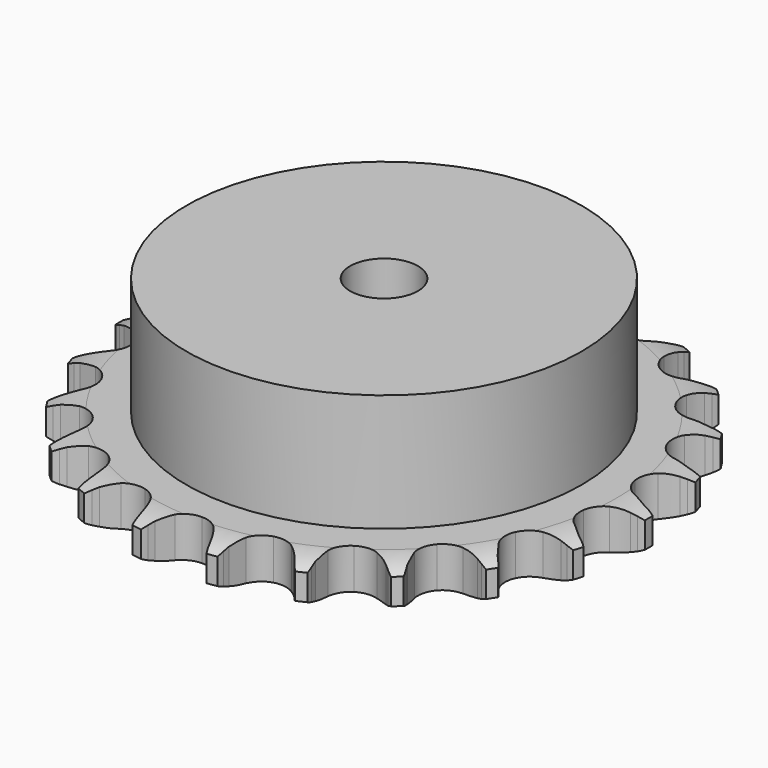
from build123d import *

# Parameters (mm, degrees)
PAD_DEPTH         = 7.2
SKETCH001_R       = 35
PAD001_DEPTH      = 28
SKETCH002_R       = 6
POCKET_DEPTH      = 0.001
POCKET_DEPTH_BACK = -28.001


with BuildPart() as part:
    # Sprocket → Pad (new body)
    with BuildSketch(Plane.XY):
        with BuildLine():
            ThreePointArc((-6.888681, 47.911827), (-5.985415, 46.823172), (-5.319648, 45.575049))
            Line((-5.319648, 45.575049), (-4.90787, 44.569666))
            ThreePointArc((-4.90787, 44.569666), (-4.247592, 43.224033), (-3.412379, 41.9794))
            ThreePointArc((-3.412379, 41.9794), (-1.900521, 40.746159), (0, 40.305006))
            ThreePointArc((0, 40.305006), (1.900521, 40.746159), (3.412379, 41.9794))
            ThreePointArc((3.412379, 41.9794), (4.247592, 43.224033), (4.90787, 44.569666))
            Line((4.90787, 44.569666), (5.319648, 45.575049))
            ThreePointArc((5.319648, 45.575049), (5.985415, 46.823172), (6.888681, 47.911827))
            ThreePointArc((6.888681, 47.911827), (7.448649, 46.612791), (7.73581, 45.227657))
            Line((7.73581, 45.227657), (7.847659, 44.146988))
            ThreePointArc((7.847659, 44.146988), (8.102083, 42.669841), (8.55281, 41.240317))
            ThreePointArc((8.55281, 41.240317), (9.655983, 39.631092), (11.355232, 38.67237))
            ThreePointArc((11.355232, 38.67237), (13.303056, 38.560214), (15.101117, 39.317561))
            Line((15.101117, 39.317561), (17.265792, 41.381574))
            ThreePointArc((17.265792, 41.381574), (17.594598, 41.814185), (17.94414, 42.230221))
            ThreePointArc((17.94414, 42.230221), (18.934576, 43.240219), (20.107962, 44.030296))
            ThreePointArc((20.107962, 44.030296), (20.279267, 42.626119), (20.164559, 41.21619))
            Line((20.164559, 41.21619), (19.967418, 40.147783))
            ThreePointArc((19.967418, 40.147783), (19.795375, 38.658792), (19.825101, 37.160189))
            ThreePointArc((19.825101, 37.160189), (20.430216, 35.305349), (21.790531, 33.906729))
            ThreePointArc((21.790531, 33.906729), (23.627857, 33.250351), (25.566453, 33.470447))
            Line((25.566453, 33.470447), (28.224943, 34.840994))
            ThreePointArc((28.224943, 34.840994), (28.662311, 35.163446), (29.114905, 35.464152))
            ThreePointArc((29.114905, 35.464152), (30.34977, 36.1542), (31.698216, 36.581692))
            ThreePointArc((31.698216, 36.581692), (31.466979, 35.186132), (30.959695, 33.865632))
            Line((30.959695, 33.865632), (30.469535, 32.896044))
            ThreePointArc((30.469535, 32.896044), (29.884964, 31.515838), (29.49128, 30.069564))
            ThreePointArc((29.49128, 30.069564), (29.549315, 28.119377), (30.460491, 26.394166))
            ThreePointArc((30.460491, 26.394166), (32.038469, 25.246741), (33.960546, 24.911757))
            Line((33.960546, 24.911757), (36.897477, 25.477804))
            ThreePointArc((36.897477, 25.477804), (37.407973, 25.663973), (37.926952, 25.824988))
            ThreePointArc((37.926952, 25.824988), (39.306206, 26.139182), (40.720469, 26.169457))
            ThreePointArc((40.720469, 26.169457), (40.105425, 24.895574), (39.246661, 23.771482))
            Line((39.246661, 23.771482), (38.503191, 22.979264))
            ThreePointArc((38.503191, 22.979264), (37.55345, 21.819658), (36.768252, 20.542882))
            ThreePointArc((36.768252, 20.542882), (36.274505, 18.655341), (36.662723, 16.743305))
            ThreePointArc((36.662723, 16.743305), (37.853515, 15.197791), (39.603358, 14.334864))
            Line((39.603358, 14.334864), (42.580797, 14.050553))
            ThreePointArc((42.580797, 14.050553), (43.123064, 14.085358), (43.666384, 14.093637))
            ThreePointArc((43.666384, 14.093637), (45.078287, 14.006524), (46.443792, 13.637128))
            ThreePointArc((46.443792, 13.637128), (45.494767, 12.588124), (44.354096, 11.751508))
            Line((44.354096, 11.751508), (43.417548, 11.200839))
            ThreePointArc((43.417548, 11.200839), (42.17958, 10.355779), (41.066478, 9.351937))
            ThreePointArc((41.066478, 9.351937), (40.060949, 7.67996), (39.894759, 5.736))
            ThreePointArc((39.894759, 5.736), (40.601894, 3.917606), (42.037742, 2.596646))
            Line((42.037742, 2.596646), (44.814474, 1.48501))
            ThreePointArc((44.814474, 1.48501), (45.344581, 1.365631), (45.868225, 1.220504))
            ThreePointArc((45.868225, 1.220504), (47.198393, 0.73914), (48.404515, 0))
            ThreePointArc((48.404515, 0), (47.198393, -0.73914), (45.868225, -1.220504))
            Line((45.868225, -1.220504), (44.814474, -1.48501))
            ThreePointArc((44.814474, -1.48501), (43.38857, -1.947064), (42.037742, -2.596646))
            ThreePointArc((42.037742, -2.596646), (40.601894, -3.917606), (39.894759, -5.736))
            ThreePointArc((39.894759, -5.736), (40.060949, -7.67996), (41.066478, -9.351937))
            Line((41.066478, -9.351937), (43.417548, -11.200839))
            ThreePointArc((43.417548, -11.200839), (43.89255, -11.464731), (44.354096, -11.751508))
            ThreePointArc((44.354096, -11.751508), (45.494767, -12.588124), (46.443792, -13.637128))
            ThreePointArc((46.443792, -13.637128), (45.078287, -14.006524), (43.666384, -14.093637))
            Line((43.666384, -14.093637), (42.580797, -14.050553))
            ThreePointArc((42.580797, -14.050553), (41.082477, -14.092167), (39.603358, -14.334864))
            ThreePointArc((39.603358, -14.334864), (37.853515, -15.197791), (36.662723, -16.743305))
            ThreePointArc((36.662723, -16.743305), (36.274505, -18.655341), (36.768252, -20.542882))
            Line((36.768252, -20.542882), (38.503191, -22.979264))
            ThreePointArc((38.503191, -22.979264), (38.884605, -23.366289), (39.246661, -23.771482))
            ThreePointArc((39.246661, -23.771482), (40.105425, -24.895574), (40.720469, -26.169457))
            ThreePointArc((40.720469, -26.169457), (39.306206, -26.139182), (37.926952, -25.824988))
            Line((37.926952, -25.824988), (36.897477, -25.477804))
            ThreePointArc((36.897477, -25.477804), (35.448126, -25.095606), (33.960546, -24.911757))
            ThreePointArc((33.960546, -24.911757), (32.038469, -25.246741), (30.460491, -26.394166))
            ThreePointArc((30.460491, -26.394166), (29.549315, -28.119377), (29.49128, -30.069564))
            Line((29.49128, -30.069564), (30.469535, -32.896044))
            ThreePointArc((30.469535, -32.896044), (30.726461, -33.37485), (30.959695, -33.865632))
            ThreePointArc((30.959695, -33.865632), (31.466979, -35.186132), (31.698216, -36.581692))
            ThreePointArc((31.698216, -36.581692), (30.34977, -36.1542), (29.114905, -35.464152))
            Line((29.114905, -35.464152), (28.224943, -34.840994))
            ThreePointArc((28.224943, -34.840994), (26.941978, -34.065949), (25.566453, -33.470447))
            ThreePointArc((25.566453, -33.470447), (23.627857, -33.250351), (21.790531, -33.906729))
            ThreePointArc((21.790531, -33.906729), (20.430216, -35.305349), (19.825101, -37.160189))
            Line((19.825101, -37.160189), (19.967418, -40.147783))
            ThreePointArc((19.967418, -40.147783), (20.079041, -40.679578), (20.164559, -41.21619))
            ThreePointArc((20.164559, -41.21619), (20.279267, -42.626119), (20.107962, -44.030296))
            ThreePointArc((20.107962, -44.030296), (18.934576, -43.240219), (17.94414, -42.230221))
            Line((17.94414, -42.230221), (17.265792, -41.381574))
            ThreePointArc((17.265792, -41.381574), (16.253152, -40.276471), (15.101117, -39.317561))
            ThreePointArc((15.101117, -39.317561), (13.303056, -38.560214), (11.355232, -38.67237))
            ThreePointArc((11.355232, -38.67237), (9.655983, -39.631092), (8.55281, -41.240317))
            Line((8.55281, -41.240317), (7.847659, -44.146988))
            ThreePointArc((7.847659, -44.146988), (7.804938, -44.688689), (7.73581, -45.227657))
            ThreePointArc((7.73581, -45.227657), (7.448649, -46.612791), (6.888681, -47.911827))
            ThreePointArc((6.888681, -47.911827), (5.985415, -46.823172), (5.319648, -45.575049))
            Line((5.319648, -45.575049), (4.90787, -44.569666))
            ThreePointArc((4.90787, -44.569666), (4.247592, -43.224033), (3.412379, -41.9794))
            ThreePointArc((3.412379, -41.9794), (1.900521, -40.746159), (0, -40.305006))
            ThreePointArc((0, -40.305006), (-1.900521, -40.746159), (-3.412379, -41.9794))
            Line((-3.412379, -41.9794), (-4.90787, -44.569666))
            ThreePointArc((-4.90787, -44.569666), (-5.101476, -45.077388), (-5.319648, -45.575049))
            ThreePointArc((-5.319648, -45.575049), (-5.985415, -46.823172), (-6.888681, -47.911827))
            ThreePointArc((-6.888681, -47.911827), (-7.448649, -46.612791), (-7.73581, -45.227657))
            Line((-7.73581, -45.227657), (-7.847659, -44.146988))
            ThreePointArc((-7.847659, -44.146988), (-8.102083, -42.669841), (-8.55281, -41.240317))
            ThreePointArc((-8.55281, -41.240317), (-9.655983, -39.631092), (-11.355232, -38.67237))
            ThreePointArc((-11.355232, -38.67237), (-13.303056, -38.560214), (-15.101117, -39.317561))
            Line((-15.101117, -39.317561), (-17.265792, -41.381574))
            ThreePointArc((-17.265792, -41.381574), (-17.594598, -41.814185), (-17.94414, -42.230221))
            ThreePointArc((-17.94414, -42.230221), (-18.934576, -43.240219), (-20.107962, -44.030296))
            ThreePointArc((-20.107962, -44.030296), (-20.279267, -42.626119), (-20.164559, -41.21619))
            Line((-20.164559, -41.21619), (-19.967418, -40.147783))
            ThreePointArc((-19.967418, -40.147783), (-19.795375, -38.658792), (-19.825101, -37.160189))
            ThreePointArc((-19.825101, -37.160189), (-20.430216, -35.305349), (-21.790531, -33.906729))
            ThreePointArc((-21.790531, -33.906729), (-23.627857, -33.250351), (-25.566453, -33.470447))
            Line((-25.566453, -33.470447), (-28.224943, -34.840994))
            ThreePointArc((-28.224943, -34.840994), (-28.662311, -35.163446), (-29.114905, -35.464152))
            ThreePointArc((-29.114905, -35.464152), (-30.34977, -36.1542), (-31.698216, -36.581692))
            ThreePointArc((-31.698216, -36.581692), (-31.466979, -35.186132), (-30.959695, -33.865632))
            Line((-30.959695, -33.865632), (-30.469535, -32.896044))
            ThreePointArc((-30.469535, -32.896044), (-29.884964, -31.515838), (-29.49128, -30.069564))
            ThreePointArc((-29.49128, -30.069564), (-29.549315, -28.119377), (-30.460491, -26.394166))
            ThreePointArc((-30.460491, -26.394166), (-32.038469, -25.246741), (-33.960546, -24.911757))
            Line((-33.960546, -24.911757), (-36.897477, -25.477804))
            ThreePointArc((-36.897477, -25.477804), (-37.407973, -25.663973), (-37.926952, -25.824988))
            ThreePointArc((-37.926952, -25.824988), (-39.306206, -26.139182), (-40.720469, -26.169457))
            ThreePointArc((-40.720469, -26.169457), (-40.105425, -24.895574), (-39.246661, -23.771482))
            Line((-39.246661, -23.771482), (-38.503191, -22.979264))
            ThreePointArc((-38.503191, -22.979264), (-37.55345, -21.819658), (-36.768252, -20.542882))
            ThreePointArc((-36.768252, -20.542882), (-36.274505, -18.655341), (-36.662723, -16.743305))
            ThreePointArc((-36.662723, -16.743305), (-37.853515, -15.197791), (-39.603358, -14.334864))
            Line((-39.603358, -14.334864), (-42.580797, -14.050553))
            ThreePointArc((-42.580797, -14.050553), (-43.123064, -14.085358), (-43.666384, -14.093637))
            ThreePointArc((-43.666384, -14.093637), (-45.078287, -14.006524), (-46.443792, -13.637128))
            ThreePointArc((-46.443792, -13.637128), (-45.494767, -12.588124), (-44.354096, -11.751508))
            Line((-44.354096, -11.751508), (-43.417548, -11.200839))
            ThreePointArc((-43.417548, -11.200839), (-42.17958, -10.355779), (-41.066478, -9.351937))
            ThreePointArc((-41.066478, -9.351937), (-40.060949, -7.67996), (-39.894759, -5.736))
            ThreePointArc((-39.894759, -5.736), (-40.601894, -3.917606), (-42.037742, -2.596646))
            Line((-42.037742, -2.596646), (-44.814474, -1.48501))
            ThreePointArc((-44.814474, -1.48501), (-45.344581, -1.365631), (-45.868225, -1.220504))
            ThreePointArc((-45.868225, -1.220504), (-47.198393, -0.73914), (-48.404515, 0))
            ThreePointArc((-48.404515, 0), (-47.198393, 0.73914), (-45.868225, 1.220504))
            Line((-45.868225, 1.220504), (-44.814474, 1.48501))
            ThreePointArc((-44.814474, 1.48501), (-43.38857, 1.947064), (-42.037742, 2.596646))
            ThreePointArc((-42.037742, 2.596646), (-40.601894, 3.917606), (-39.894759, 5.736))
            ThreePointArc((-39.894759, 5.736), (-40.060949, 7.67996), (-41.066478, 9.351937))
            Line((-41.066478, 9.351937), (-43.417548, 11.200839))
            ThreePointArc((-43.417548, 11.200839), (-43.89255, 11.464731), (-44.354096, 11.751508))
            ThreePointArc((-44.354096, 11.751508), (-45.494767, 12.588124), (-46.443792, 13.637128))
            ThreePointArc((-46.443792, 13.637128), (-45.078287, 14.006524), (-43.666384, 14.093637))
            Line((-43.666384, 14.093637), (-42.580797, 14.050553))
            ThreePointArc((-42.580797, 14.050553), (-41.082477, 14.092167), (-39.603358, 14.334864))
            ThreePointArc((-39.603358, 14.334864), (-37.853515, 15.197791), (-36.662723, 16.743305))
            ThreePointArc((-36.662723, 16.743305), (-36.274505, 18.655341), (-36.768252, 20.542882))
            Line((-36.768252, 20.542882), (-38.503191, 22.979264))
            ThreePointArc((-38.503191, 22.979264), (-38.884605, 23.366289), (-39.246661, 23.771482))
            ThreePointArc((-39.246661, 23.771482), (-40.105425, 24.895574), (-40.720469, 26.169457))
            ThreePointArc((-40.720469, 26.169457), (-39.306206, 26.139182), (-37.926952, 25.824988))
            Line((-37.926952, 25.824988), (-36.897477, 25.477804))
            ThreePointArc((-36.897477, 25.477804), (-35.448126, 25.095606), (-33.960546, 24.911757))
            ThreePointArc((-33.960546, 24.911757), (-32.038469, 25.246741), (-30.460491, 26.394166))
            ThreePointArc((-30.460491, 26.394166), (-29.549315, 28.119377), (-29.49128, 30.069564))
            Line((-29.49128, 30.069564), (-30.469535, 32.896044))
            ThreePointArc((-30.469535, 32.896044), (-30.726461, 33.37485), (-30.959695, 33.865632))
            ThreePointArc((-30.959695, 33.865632), (-31.466979, 35.186132), (-31.698216, 36.581692))
            ThreePointArc((-31.698216, 36.581692), (-30.34977, 36.1542), (-29.114905, 35.464152))
            Line((-29.114905, 35.464152), (-28.224943, 34.840994))
            ThreePointArc((-28.224943, 34.840994), (-26.941978, 34.065949), (-25.566453, 33.470447))
            ThreePointArc((-25.566453, 33.470447), (-23.627857, 33.250351), (-21.790531, 33.906729))
            ThreePointArc((-21.790531, 33.906729), (-20.430216, 35.305349), (-19.825101, 37.160189))
            Line((-19.825101, 37.160189), (-19.967418, 40.147783))
            ThreePointArc((-19.967418, 40.147783), (-20.079041, 40.679578), (-20.164559, 41.21619))
            ThreePointArc((-20.164559, 41.21619), (-20.279267, 42.626119), (-20.107962, 44.030296))
            ThreePointArc((-20.107962, 44.030296), (-18.934576, 43.240219), (-17.94414, 42.230221))
            Line((-17.94414, 42.230221), (-17.265792, 41.381574))
            ThreePointArc((-17.265792, 41.381574), (-16.253152, 40.276471), (-15.101117, 39.317561))
            ThreePointArc((-15.101117, 39.317561), (-13.303056, 38.560214), (-11.355232, 38.67237))
            ThreePointArc((-11.355232, 38.67237), (-9.655983, 39.631092), (-8.55281, 41.240317))
            Line((-8.55281, 41.240317), (-7.847659, 44.146988))
            ThreePointArc((-7.847659, 44.146988), (-7.804938, 44.688689), (-7.73581, 45.227657))
            ThreePointArc((-7.73581, 45.227657), (-7.448649, 46.612791), (-6.888681, 47.911827))
        make_face()
    extrude(amount=PAD_DEPTH)

    # Sketch → Groove (revolve, cut)
    with BuildSketch(Plane.XZ):
        with BuildLine():
            Line((41.233431, 0), (46.9, 0))
            Line((52.566569, 0), (46.9, 0))
            Line((52.566569, 7.2), (52.566569, 0))
            Line((46.9, 7.2), (52.566569, 7.2))
            Line((41.233431, 7.2), (46.9, 7.2))
            ThreePointArc((46.9, 5.9), (44.14032, 6.870833), (41.233431, 7.2))
            Line((46.9, 1.3), (46.9, 5.9))
            ThreePointArc((41.233431, 0), (44.14032, 0.329167), (46.9, 1.3))
        make_face()
    revolve(axis=Axis((0, 0, 0), (0, 0, 1)), mode=Mode.SUBTRACT)

    # Sketch001 → Pad001 (join)
    with BuildSketch(Plane.XY):
        Circle(SKETCH001_R)
    extrude(amount=PAD001_DEPTH)

    # Sketch002 → Pocket (cut, two sides)
    with BuildSketch(Plane.XY) as pocket_sk:
        Circle(SKETCH002_R)
    extrude(amount=-POCKET_DEPTH, mode=Mode.SUBTRACT)
    extrude(pocket_sk.sketch, amount=-POCKET_DEPTH_BACK, mode=Mode.SUBTRACT)


solid = part.part
